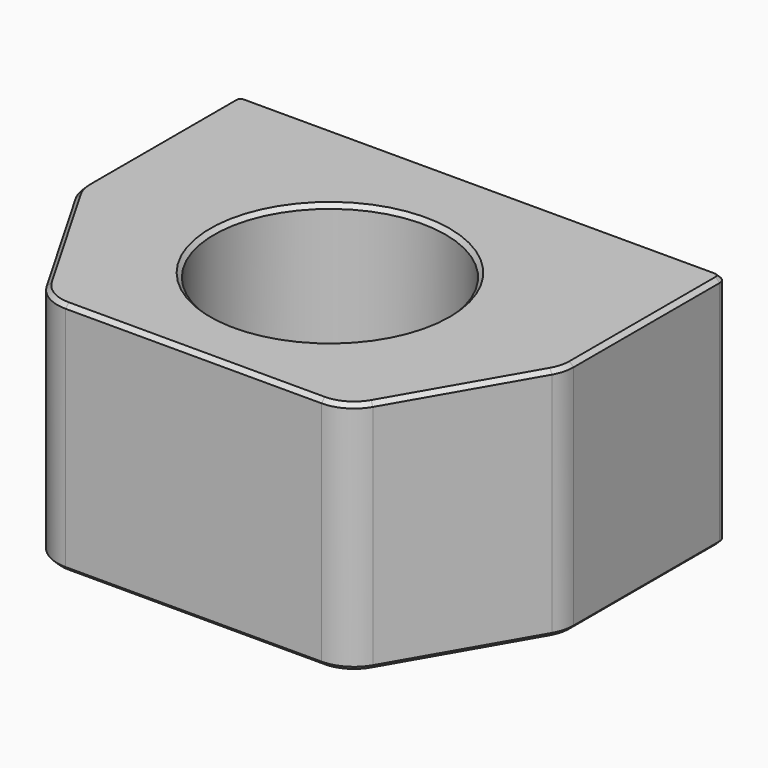
from build123d import *

# Parameters (mm, degrees)
SKETCH_R       = 14.25
PAD_DEPTH      = 29
SKETCH001_R    = 2.1
HOLE_DEPTH     = 12
HOLE_TIPS_R    = 2.1
SKETCH002_R    = 2.1
HOLE001_DEPTH  = 12
HOLE001_TIPS_R = 2.1
CHAMFER_SIZE   = 0.5


with BuildPart() as part:
    # Sketch → Pad (new body)
    with BuildSketch(Plane.XY):
        with BuildLine():
            Line((-29, 23.5), (29, 23.5))
            ThreePointArc((30, 22.5), (29.707107, 23.207107), (29, 23.5))
            Line((30, 22.5), (30, 0))
            ThreePointArc((29.330127, -2.5), (29.829629, -1.294095), (30, 0))
            Line((20.092523, -18.5), (29.330127, -2.5))
            ThreePointArc((15.762396, -21), (18.262396, -20.330127), (20.092523, -18.5))
            Line((-15.762396, -21), (15.762396, -21))
            ThreePointArc((-20.092523, -18.5), (-18.262396, -20.330127), (-15.762396, -21))
            Line((-29.330127, -2.5), (-20.092523, -18.5))
            ThreePointArc((-30, 0), (-29.829629, -1.294095), (-29.330127, -2.5))
            Line((-30, 22.5), (-30, 0))
            ThreePointArc((-29, 23.5), (-29.707107, 23.207107), (-30, 22.5))
        make_face()
        Circle(SKETCH_R, mode=Mode.SUBTRACT)
    extrude(amount=PAD_DEPTH)

    # Sketch001 (on Face14 of Pad) → Hole (cut)
    with BuildSketch(Plane(origin=(0, 0, 0), x_dir=(1, 0, 0), z_dir=(0, 0, -1))):
        with Locations((-19, 0)):
            Circle(SKETCH001_R)
        with Locations((-13.435029, 13.435029)):
            Circle(SKETCH001_R)
        with Locations((13.435029, 13.435029)):
            Circle(SKETCH001_R)
        with Locations((19, 0)):
            Circle(SKETCH001_R)
        with Locations((13.435029, -13.435029)):
            Circle(SKETCH001_R)
        with Locations((-13.435029, -13.435029)):
            Circle(SKETCH001_R)
    extrude(amount=-HOLE_DEPTH, mode=Mode.SUBTRACT)

    # Hole tips → Hole tip 1 section 0
    with BuildSketch(Plane(origin=(0, 0, 12), x_dir=(1, 0, 0), z_dir=(0, 0, -1)), mode=Mode.PRIVATE) as hole_tip_1_s0:
        with Locations((-19, 0)):
            Circle(HOLE_TIPS_R)
    loft([hole_tip_1_s0.sketch, Vertex(-19, 0, 13.261807)], mode=Mode.SUBTRACT)

    # Hole tips → Hole tip 2 section 0
    with BuildSketch(Plane(origin=(0, 0, 12), x_dir=(1, 0, 0), z_dir=(0, 0, -1)), mode=Mode.PRIVATE) as hole_tip_2_s0:
        with Locations((-13.435029, 13.435029)):
            Circle(HOLE_TIPS_R)
    loft([hole_tip_2_s0.sketch, Vertex(-13.435029, -13.435029, 13.261807)], mode=Mode.SUBTRACT)

    # Hole tips → Hole tip 3 section 0
    with BuildSketch(Plane(origin=(0, 0, 12), x_dir=(1, 0, 0), z_dir=(0, 0, -1)), mode=Mode.PRIVATE) as hole_tip_3_s0:
        with Locations((13.435029, 13.435029)):
            Circle(HOLE_TIPS_R)
    loft([hole_tip_3_s0.sketch, Vertex(13.435029, -13.435029, 13.261807)], mode=Mode.SUBTRACT)

    # Hole tips → Hole tip 4 section 0
    with BuildSketch(Plane(origin=(0, 0, 12), x_dir=(1, 0, 0), z_dir=(0, 0, -1)), mode=Mode.PRIVATE) as hole_tip_4_s0:
        with Locations((19, 0)):
            Circle(HOLE_TIPS_R)
    loft([hole_tip_4_s0.sketch, Vertex(19, 0, 13.261807)], mode=Mode.SUBTRACT)

    # Hole tips → Hole tip 5 section 0
    with BuildSketch(Plane(origin=(0, 0, 12), x_dir=(1, 0, 0), z_dir=(0, 0, -1)), mode=Mode.PRIVATE) as hole_tip_5_s0:
        with Locations((13.435029, -13.435029)):
            Circle(HOLE_TIPS_R)
    loft([hole_tip_5_s0.sketch, Vertex(13.435029, 13.435029, 13.261807)], mode=Mode.SUBTRACT)

    # Hole tips → Hole tip 6 section 0
    with BuildSketch(Plane(origin=(0, 0, 12), x_dir=(1, 0, 0), z_dir=(0, 0, -1)), mode=Mode.PRIVATE) as hole_tip_6_s0:
        with Locations((-13.435029, -13.435029)):
            Circle(HOLE_TIPS_R)
    loft([hole_tip_6_s0.sketch, Vertex(-13.435029, 13.435029, 13.261807)], mode=Mode.SUBTRACT)

    # Sketch002 (on Face2 of Hole) → Hole001 (cut)
    with BuildSketch(Plane(origin=(0, 23.5, 0), x_dir=(-1, 0, 0), z_dir=(0, 1, 0))):
        with Locations((-25, 5)):
            Circle(SKETCH002_R)
        with Locations((25, 5)):
            Circle(SKETCH002_R)
        with Locations((-25, 24)):
            Circle(SKETCH002_R)
        with Locations((25, 24)):
            Circle(SKETCH002_R)
    extrude(amount=-HOLE001_DEPTH, mode=Mode.SUBTRACT)

    # Hole001 tips → Hole001 tip 1 section 0
    with BuildSketch(Plane(origin=(0, 11.5, 0), x_dir=(-1, 0, 0), z_dir=(0, 1, 0)), mode=Mode.PRIVATE) as hole001_tip_1_s0:
        with Locations((-25, 5)):
            Circle(HOLE001_TIPS_R)
    loft([hole001_tip_1_s0.sketch, Vertex(25, 10.238193, 5)], mode=Mode.SUBTRACT)

    # Hole001 tips → Hole001 tip 2 section 0
    with BuildSketch(Plane(origin=(0, 11.5, 0), x_dir=(-1, 0, 0), z_dir=(0, 1, 0)), mode=Mode.PRIVATE) as hole001_tip_2_s0:
        with Locations((25, 5)):
            Circle(HOLE001_TIPS_R)
    loft([hole001_tip_2_s0.sketch, Vertex(-25, 10.238193, 5)], mode=Mode.SUBTRACT)

    # Hole001 tips → Hole001 tip 3 section 0
    with BuildSketch(Plane(origin=(0, 11.5, 0), x_dir=(-1, 0, 0), z_dir=(0, 1, 0)), mode=Mode.PRIVATE) as hole001_tip_3_s0:
        with Locations((-25, 24)):
            Circle(HOLE001_TIPS_R)
    loft([hole001_tip_3_s0.sketch, Vertex(25, 10.238193, 24)], mode=Mode.SUBTRACT)

    # Hole001 tips → Hole001 tip 4 section 0
    with BuildSketch(Plane(origin=(0, 11.5, 0), x_dir=(-1, 0, 0), z_dir=(0, 1, 0)), mode=Mode.PRIVATE) as hole001_tip_4_s0:
        with Locations((25, 24)):
            Circle(HOLE001_TIPS_R)
    loft([hole001_tip_4_s0.sketch, Vertex(-25, 10.238193, 24)], mode=Mode.SUBTRACT)

    # Chamfer
    chamfer_edges = [part.edges().sort_by_distance(p)[0] for p in [
        (-14.25, 0, 0),
        (-16.9, 0, 0),
        (-11.335029, -13.435029, 0),
        (-11.335029, 13.435029, 0),
        (15.535029, -13.435029, 0),
        (21.1, 0, 0),
        (15.535029, 13.435029, 0),
        (0, 23.5, 0),
        (0, 23.5, 29),
        (-27.1, 23.5, 24),
        (22.9, 23.5, 24),
        (22.9, 23.5, 5),
        (-27.1, 23.5, 5),
        (-14.25, 0, 29),
    ]]
    chamfer(chamfer_edges, length=CHAMFER_SIZE)


solid = part.part
